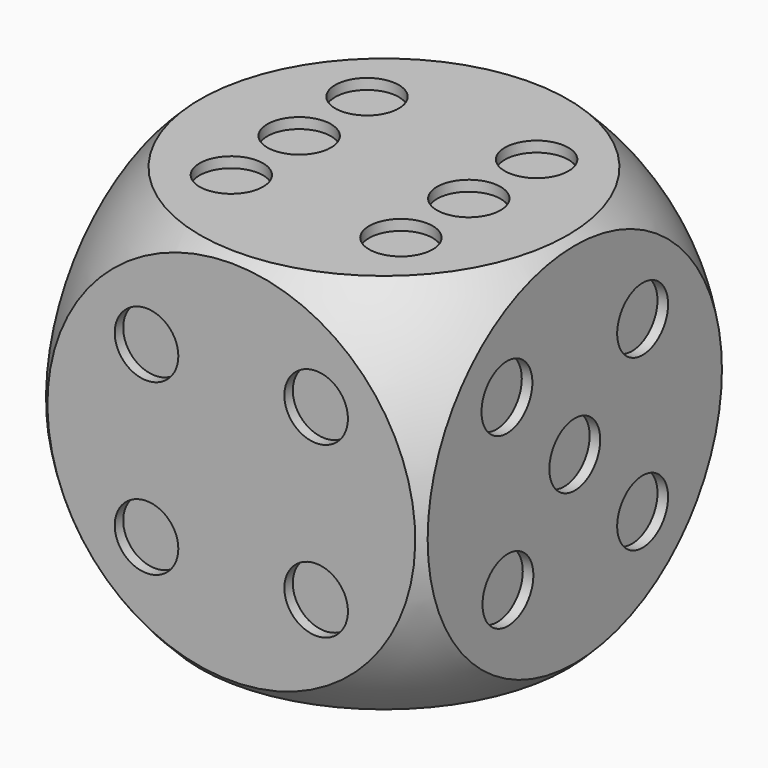
from build123d import *

# Parameters (mm, degrees)
BOX_W           = 36
BOX_H           = 36
BOX_DEPTH       = 36
SKETCH002_R     = 3
POCKET_DEPTH    = 1
SKETCH_R        = 3
POCKET001_DEPTH = 1
SKETCH003_R     = 3
POCKET002_DEPTH = 1
SKETCH004_R     = 3
POCKET003_DEPTH = 1
SKETCH005_R     = 3
POCKET004_DEPTH = 1
SKETCH006_R     = 3
POCKET005_DEPTH = 1


with BuildPart() as sphere:
    # Sphere → Sphere (revolve)
    with BuildSketch(Plane.XZ):
        with BuildLine():
            ThreePointArc((0, -25), (25, 0), (0, 25))
            Line((0, 25), (0, -25))
        make_face()
    revolve(axis=Axis((0, 0, 0), (0, 0, 1)))


with BuildPart() as pocket005:
    # Box → Box (new body)
    with BuildSketch(Plane(origin=(-18, -18, -18), x_dir=(1, 0, 0), z_dir=(0, 0, 1))):
        with Locations((18, 18)):
            Rectangle(BOX_W, BOX_H)
    extrude(amount=BOX_DEPTH)

    # Common: intersect Sphere
    add(sphere.part, mode=Mode.INTERSECT)

    # Sketch002 → Pocket (cut)
    with BuildSketch(Plane.XY.offset(18)):
        with Locations((-8, 8)):
            Circle(SKETCH002_R)
        with Locations((-8, 0)):
            Circle(SKETCH002_R)
        with Locations((-8, -8)):
            Circle(SKETCH002_R)
        with Locations((8, 8)):
            Circle(SKETCH002_R)
        with Locations((8, -8)):
            Circle(SKETCH002_R)
        with Locations((8, 0)):
            Circle(SKETCH002_R)
    extrude(amount=-POCKET_DEPTH, mode=Mode.SUBTRACT)

    # Sketch → Pocket001 (cut)
    with BuildSketch(Plane.YZ.offset(18)):
        with Locations((-8, 8)):
            Circle(SKETCH_R)
        with Locations((8, 8)):
            Circle(SKETCH_R)
        with Locations((-7.883513, -8.046017)):
            Circle(SKETCH_R)
        with Locations((8, -8)):
            Circle(SKETCH_R)
        Circle(SKETCH_R)
    extrude(amount=-POCKET001_DEPTH, mode=Mode.SUBTRACT)

    # Sketch003 → Pocket002 (cut)
    with BuildSketch(Plane.XZ.offset(18)):
        with Locations((-8, 8)):
            Circle(SKETCH003_R)
        with Locations((8, 8)):
            Circle(SKETCH003_R)
        with Locations((8, -8)):
            Circle(SKETCH003_R)
        with Locations((-8, -8)):
            Circle(SKETCH003_R)
    extrude(amount=-POCKET002_DEPTH, mode=Mode.SUBTRACT)

    # Sketch004 → Pocket003 (cut)
    with BuildSketch(Plane(origin=(0, 18, 0), x_dir=(-1, 0, 0), z_dir=(0, 1, 0))):
        with Locations((-8, 8)):
            Circle(SKETCH004_R)
        Circle(SKETCH004_R)
        with Locations((8, -8)):
            Circle(SKETCH004_R)
    extrude(amount=-POCKET003_DEPTH, mode=Mode.SUBTRACT)

    # Sketch005 → Pocket004 (cut)
    with BuildSketch(Plane(origin=(0, 0, -18), x_dir=(1, 0, 0), z_dir=(0, 0, -1))):
        Circle(SKETCH005_R)
    extrude(amount=-POCKET004_DEPTH, mode=Mode.SUBTRACT)

    # Sketch006 → Pocket005 (cut)
    with BuildSketch(Plane(origin=(-18, 0, 0), x_dir=(0, -1, 0), z_dir=(-1, 0, 0))):
        with Locations((-8, 8)):
            Circle(SKETCH006_R)
        with Locations((8, -8)):
            Circle(SKETCH006_R)
    extrude(amount=-POCKET005_DEPTH, mode=Mode.SUBTRACT)


solid = pocket005.part
